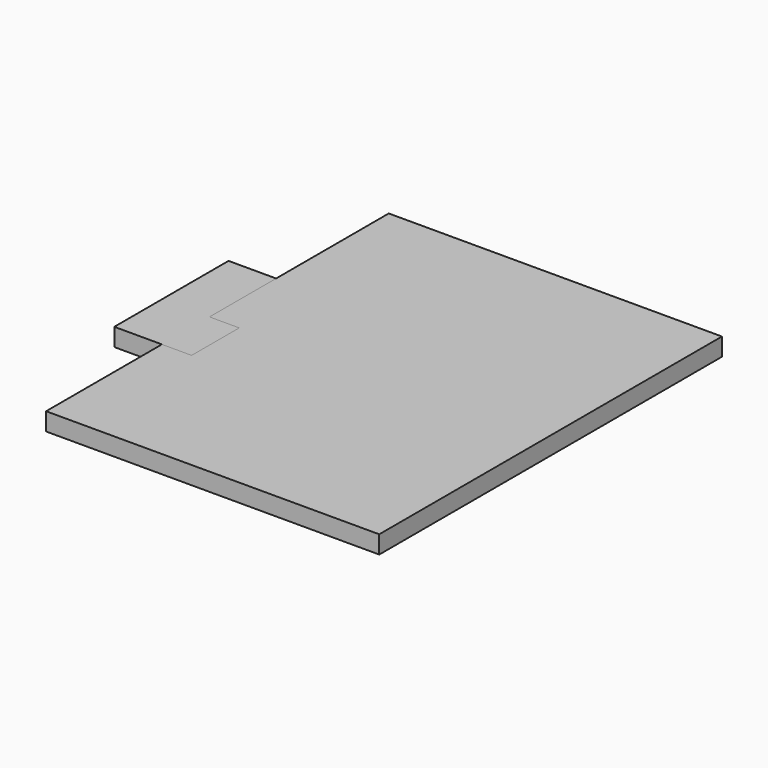
from build123d import *

# Parameters (mm, degrees)
F1_DEPTH = 457.2
F2_DEPTH = 457.2
F0_W     = 1219.2
F0_H     = 304.8
F3_DEPTH = 202.9968


with BuildPart() as f1:
    # F0 (on Top) → F1 (new body)
    with BuildSketch(Plane.XY):
        Polygon((-10058.4, 4267.2), (-1524, 4267.2), (-1524, 15240), (-10058.4, 15240), (-10058.4, 11937.7968), (-10058.4, 11632.9968), (-10058.4, 9499.3968), (-9296.4, 9499.3968), (-9296.4, 7975.3968), (-10058.4, 7975.3968), align=None)
    extrude(amount=F1_DEPTH)


with BuildPart() as f2:
    # F0 (on Top) → F2 (new body)
    with BuildSketch(Plane.XY):
        Polygon((-11277.6, 7975.3968), (-10058.4, 7975.3968), (-9296.4, 7975.3968), (-9296.4, 9499.3968), (-10058.4, 9499.3968), (-10058.4, 11632.9968), (-11277.6, 11632.9968), align=None)
    extrude(amount=F2_DEPTH)


with BuildPart() as f3:
    # F0 (on Top) → F3 (new body)
    with BuildSketch(Plane.XY):
        with Locations((-10668, 11785.3968)):
            Rectangle(F0_W, F0_H)
    extrude(amount=F3_DEPTH)


solid = Compound([f1.part, f2.part, f3.part])
